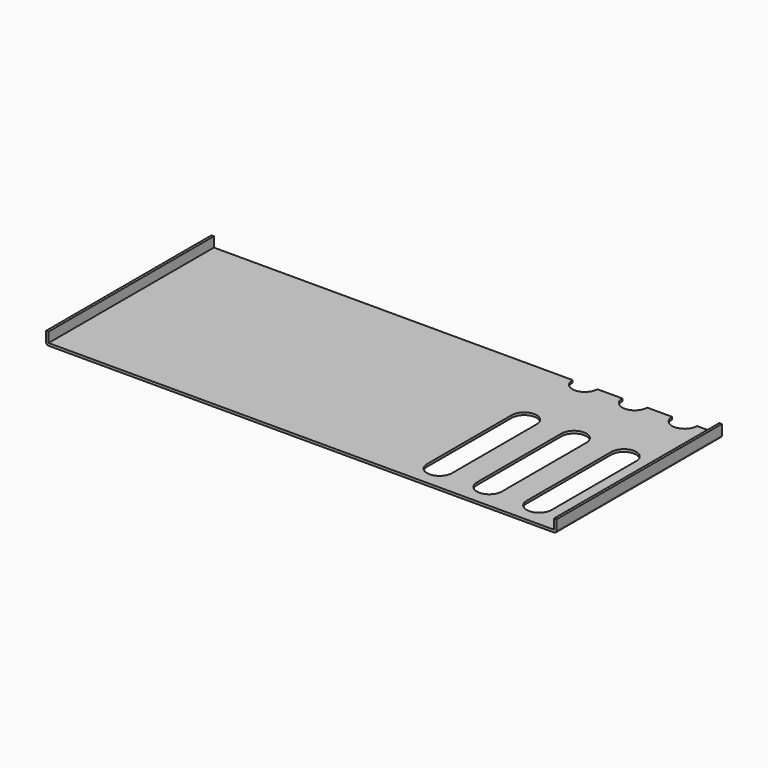
from build123d import *

# Parameters (mm, degrees)
F1_DEPTH = 166
F3_DEPTH = 2
F4_D     = 20
F4_DEPTH = 5


with BuildPart() as f1:
    # F0 (on Front) → F1 (new body)
    with BuildSketch(Plane.XZ):
        with BuildLine():
            ThreePointArc((0, 12), (0.585786, 10.585786), (2, 10))
            Line((2, 10), (408, 10))
            ThreePointArc((408, 10), (409.414214, 10.585786), (410, 12))
            Line((410, 12), (410, 20))
            Line((410, 20), (408, 20))
            Line((408, 20), (408, 12))
            Line((408, 12), (2, 12))
            Line((2, 12), (2, 20))
            Line((2, 20), (0, 20))
            Line((0, 20), (0, 12))
        make_face()
    extrude(amount=-F1_DEPTH)

    # F2 (on face) → F3 (cut, through all)
    with BuildSketch(Plane(origin=(0, 0, 10), x_dir=(1, 0, 0), z_dir=(0, 0, -1))):
        with BuildLine():
            ThreePointArc((310, -20), (300, -10), (290, -20))
            Line((290, -20), (290, -105))
            ThreePointArc((290, -105), (300, -115), (310, -105))
            Line((310, -105), (310, -20))
        make_face()
        with BuildLine():
            ThreePointArc((350, -20), (340, -10), (330, -20))
            Line((330, -20), (330, -105))
            ThreePointArc((330, -105), (340, -115), (350, -105))
            Line((350, -105), (350, -20))
        make_face()
        with BuildLine():
            ThreePointArc((390, -20), (380, -10), (370, -20))
            Line((370, -20), (370, -105))
            ThreePointArc((370, -105), (380, -115), (390, -105))
            Line((390, -105), (390, -20))
        make_face()
    extrude(amount=-F3_DEPTH, mode=Mode.SUBTRACT)

    # F4
    with Locations(Plane(origin=(0, 0, 10), x_dir=(1, 0, 0), z_dir=(0, 0, -1))):
        with Locations((300, -166), (340, -166), (380, -166)):
            Hole(F4_D / 2, depth=F4_DEPTH)


solid = f1.part
